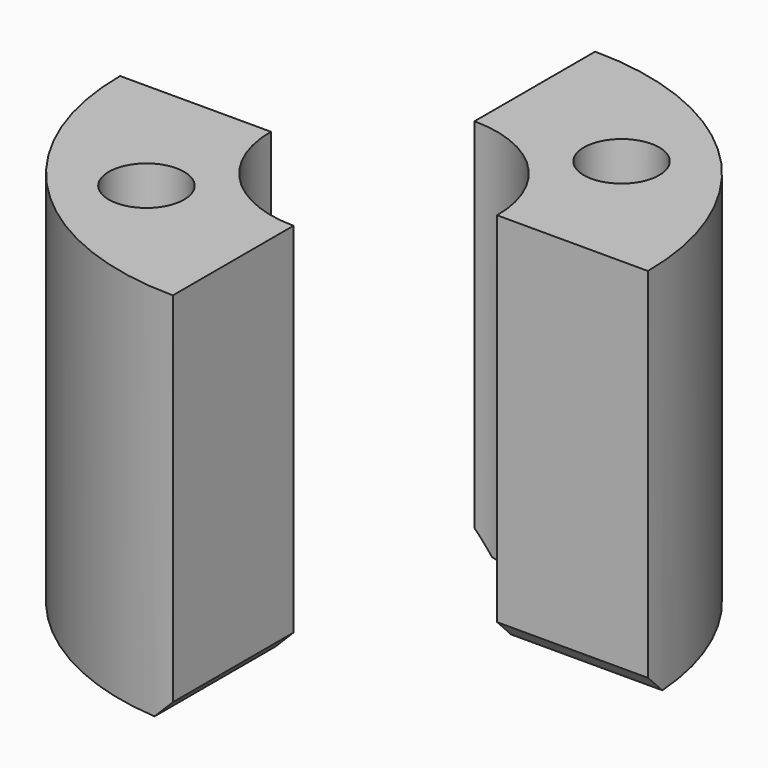
from build123d import *

# Parameters (mm, degrees)
CYLINDER1988_R     = 1
CYLINDER1988_DEPTH = 20
CYLINDER1984_R     = 1
CYLINDER1984_DEPTH = 20
CYLINDER1987_R     = 2
CYLINDER1987_DEPTH = 2
CYLINDER1986_R     = 2
CYLINDER1986_DEPTH = 2
CYLINDER1990_R     = 3
CYLINDER1990_DEPTH = 5
CYLINDER1989_R     = 3
CYLINDER1989_DEPTH = 5
BOX762_W           = 10
BOX762_H           = 20
BOX762_DEPTH       = 10
BOX761_W           = 10
BOX761_H           = 20
BOX761_DEPTH       = 10
TUBE080_R          = 7
TUBE080_R_2        = 1
TUBE080_DEPTH      = 10
CHAMFER102_SIZE    = 0.5


with BuildPart() as obj1:
    # Cylinder1988 → Cylinder1988 (new body)
    with BuildSketch(Plane(origin=(-3.5, -3.5, 0), x_dir=(1, 0, 0), z_dir=(0, 0, 1))):
        Circle(CYLINDER1988_R)
    extrude(amount=CYLINDER1988_DEPTH)


with BuildPart() as compound890:
    # Cylinder1984 → Cylinder1984 (new body)
    with BuildSketch(Plane(origin=(3.5, 3.5, 0), x_dir=(1, 0, 0), z_dir=(0, 0, 1))):
        Circle(CYLINDER1984_R)
    extrude(amount=CYLINDER1984_DEPTH)

    # Compound890: union obj1
    add(obj1.part)


with BuildPart() as obj2:
    # Cylinder1987 → Cylinder1987 (new body)
    with BuildSketch(Plane(origin=(-3.5, -3.5, 0), x_dir=(1, 0, 0), z_dir=(0, 0, 1))):
        Circle(CYLINDER1987_R)
    extrude(amount=CYLINDER1987_DEPTH)


with BuildPart() as compound891:
    # Cylinder1986 → Cylinder1986 (new body)
    with BuildSketch(Plane(origin=(3.5, 3.5, 0), x_dir=(1, 0, 0), z_dir=(0, 0, 1))):
        Circle(CYLINDER1986_R)
    extrude(amount=CYLINDER1986_DEPTH)

    # Compound891: union obj2
    add(obj2.part)


with BuildPart() as obj3:
    # Cylinder1990 → Cylinder1990 (new body)
    with BuildSketch(Plane.XY.offset(5)):
        Circle(CYLINDER1990_R)
    extrude(amount=CYLINDER1990_DEPTH)


with BuildPart() as obj4:
    # Cylinder1989 → Cylinder1989 (new body)
    with BuildSketch(Plane.XY):
        Circle(CYLINDER1989_R)
    extrude(amount=CYLINDER1989_DEPTH)


with BuildPart() as krychle761:
    # Box762 → Box762 (new body)
    with BuildSketch(Plane(origin=(0, 0, 0), x_dir=(0, 1, 0), z_dir=(0, 0, 1))):
        with Locations((5, 10)):
            Rectangle(BOX762_W, BOX762_H)
    extrude(amount=BOX762_DEPTH)


with BuildPart() as compound892:
    # Box761 → Box761 (new body)
    with BuildSketch(Plane(origin=(0, 0, 0), x_dir=(0, -1, 0), z_dir=(0, 0, 1))):
        with Locations((5, 10)):
            Rectangle(BOX761_W, BOX761_H)
    extrude(amount=BOX761_DEPTH)

    # Compound892: union Krychle761
    add(krychle761.part)


with BuildPart() as chamfer102:
    # Tube080 → Tube080 (new body)
    with BuildSketch(Plane.XY):
        Circle(TUBE080_R)
        Circle(TUBE080_R_2, mode=Mode.SUBTRACT)
    extrude(amount=TUBE080_DEPTH)

    # Cut735: cut Compound892
    add(compound892.part, mode=Mode.SUBTRACT)

    # Cut731: cut obj4
    add(obj4.part, mode=Mode.SUBTRACT)

    # Cut732: cut obj3
    add(obj3.part, mode=Mode.SUBTRACT)

    # Cut730: cut Compound891
    add(compound891.part, mode=Mode.SUBTRACT)

    # Cut733: cut Compound890
    add(compound890.part, mode=Mode.SUBTRACT)

    # Chamfer102
    chamfer102_edges = [chamfer102.edges().sort_by_distance(p)[0] for p in [
        (0, 5, 0),
        (5, 0, 0),
        (0, -5, 0),
        (-5, 0, 0),
    ]]
    chamfer(chamfer102_edges, length=CHAMFER102_SIZE)


solid = chamfer102.part
